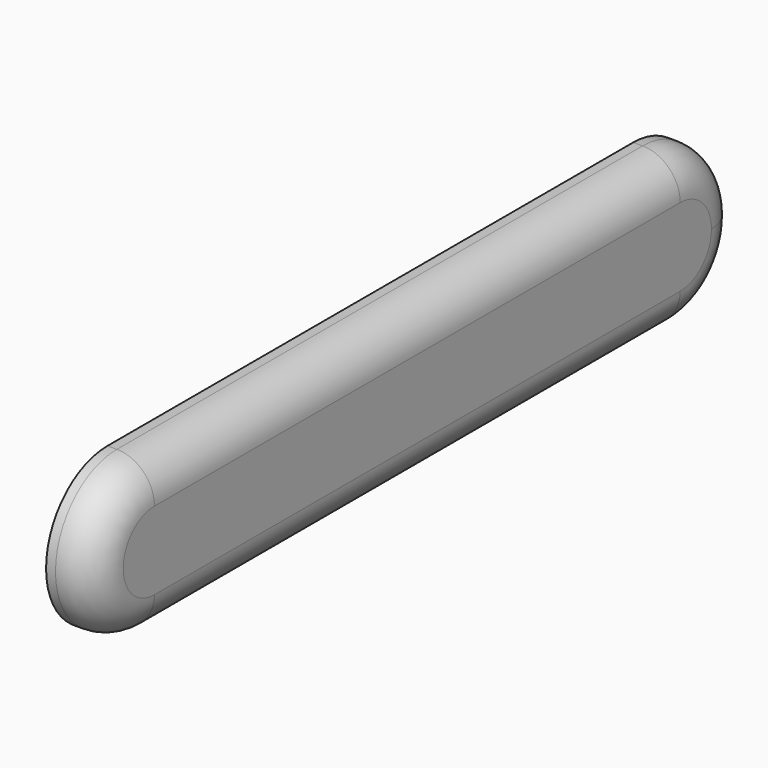
from build123d import *

# Parameters (mm, degrees)
F1_DEPTH = 6.35
F2_R     = 5.08


with BuildPart() as f1:
    # F0 (on Right) → F1 (new body)
    with BuildSketch(Plane.YZ):
        with BuildLine():
            Line((-44.537589, -10.444656), (-44.537589, 10.247586))
            ThreePointArc((-44.537589, 10.247586), (-54.88371, -0.098535), (-44.537589, -10.444656))
        make_face()
        with BuildLine():
            ThreePointArc((-34.191468, -0.098535), (-37.221777, 7.217278), (-44.537589, 10.247586))
            Line((-44.537589, 10.247586), (-44.537589, -10.444656))
            ThreePointArc((-44.537589, -10.444656), (-37.221777, -7.414347), (-34.191468, -0.098535))
        make_face()
        with BuildLine():
            ThreePointArc((54.489574, -0.098535), (51.459266, 7.217278), (44.143453, 10.247586))
            Line((44.143453, 10.247586), (44.143453, -10.444656))
            ThreePointArc((44.143453, -10.444656), (51.459266, -7.414347), (54.489574, -0.098535))
        make_face()
        with BuildLine():
            Line((44.143453, -10.444656), (44.143453, 10.247586))
            ThreePointArc((44.143453, 10.247586), (33.797332, -0.098535), (44.143453, -10.444656))
        make_face()
        with BuildLine():
            Line((44.143453, 10.247586), (-44.537589, 10.247586))
            ThreePointArc((-44.537589, 10.247586), (-37.221777, 7.217278), (-34.191468, -0.098535))
            ThreePointArc((-34.191468, -0.098535), (-37.221777, -7.414347), (-44.537589, -10.444656))
            Line((-44.537589, -10.444656), (44.143453, -10.444656))
            ThreePointArc((44.143453, -10.444656), (33.797332, -0.098535), (44.143453, 10.247586))
        make_face()
    extrude(amount=F1_DEPTH)

    # F2
    f2_edges = [f1.edges().sort_by_distance(p)[0] for p in [
        (6.35, 54.489574, -0.098535),
        (6.35, -0.197068, 10.247586),
        (6.35, -54.88371, -0.098535),
        (6.35, -0.197068, -10.444656),
    ]]
    fillet(f2_edges, radius=F2_R)


solid = f1.part
